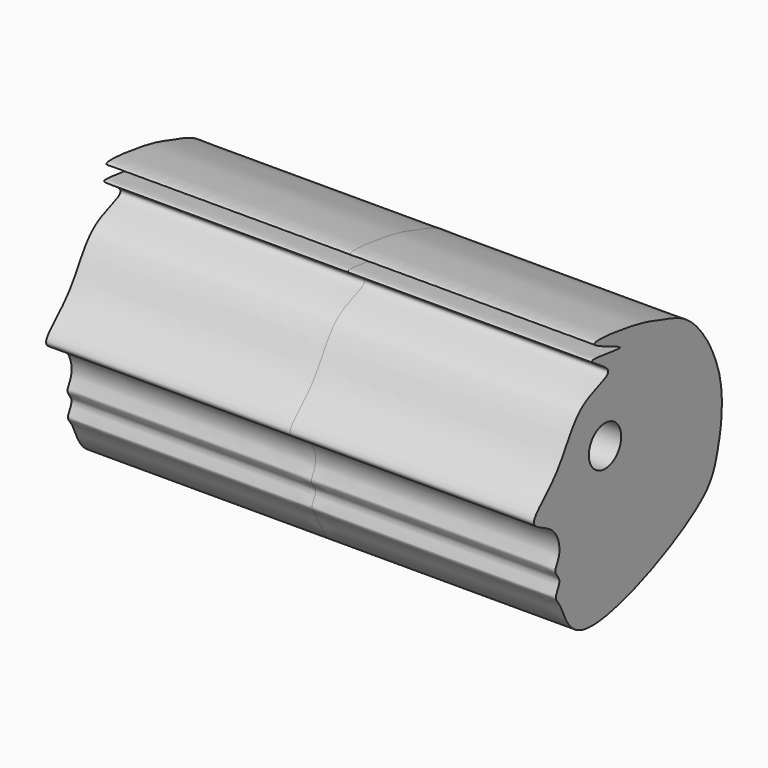
from build123d import *

# Parameters (mm, degrees)
F0_R     = 6.2184794503
F1_DEPTH = 75


with BuildPart() as f1:
    # F0 (on Right) → F1 (new body, symmetric)
    with BuildSketch(Plane.YZ):
        with BuildLine():
            add(Edge.make_bspline(
                [(-2.6997126391, 39.908790406), (-5.6924887327, 40.7971078934), (-10.7798665601, 42.9278879663), (-38.6051126405, 46.1686784192), (-9.6297272422, 36.4203949686), (-37.2313045332, 42.1539822972), (-17.607698472, 33.46288826), (-36.3325493004, 31.0237621547), (-41.0209584108, 14.3592748643), (-56.7576237143, 4.1060589908), (-43.2368553109, 1.351497114), (-41.343747799, -8.074887025), (-44.999743711, -11.5978840396), (-40.9858245172, -14.5728865138), (-44.6852365759, -18.8104739112), (-41.1694727807, -21.2057879886), (-37.1368752383, -40.2223341754), (13.7527885577, -18.2522614684), (18.6047982235, -5.6648015424), (22.4849982086, 15.1153046209), (9.5212971848, 37.0027427773), (0.3539123065, 39.002411728), (-2.6997126391, 39.908790406)],
                knots=[0, 0, 0, 0, 0.0486351332, 0.1064934712, 0.1548969579, 0.2030204458, 0.2442608367, 0.2911671296, 0.3551362407, 0.4075928875, 0.4505111216, 0.4930972778, 0.5219978522, 0.5491621218, 0.5787267277, 0.6052077622, 0.6574717995, 0.7582765167, 0.8135099558, 0.8787040344, 0.9503760217, 1, 1, 1, 1], degree=3))
        make_face()
        with Locations((-24.7227288783, 14.7000011057)):
            Circle(F0_R, mode=Mode.SUBTRACT)
    extrude(amount=F1_DEPTH, both=True)


solid = f1.part
